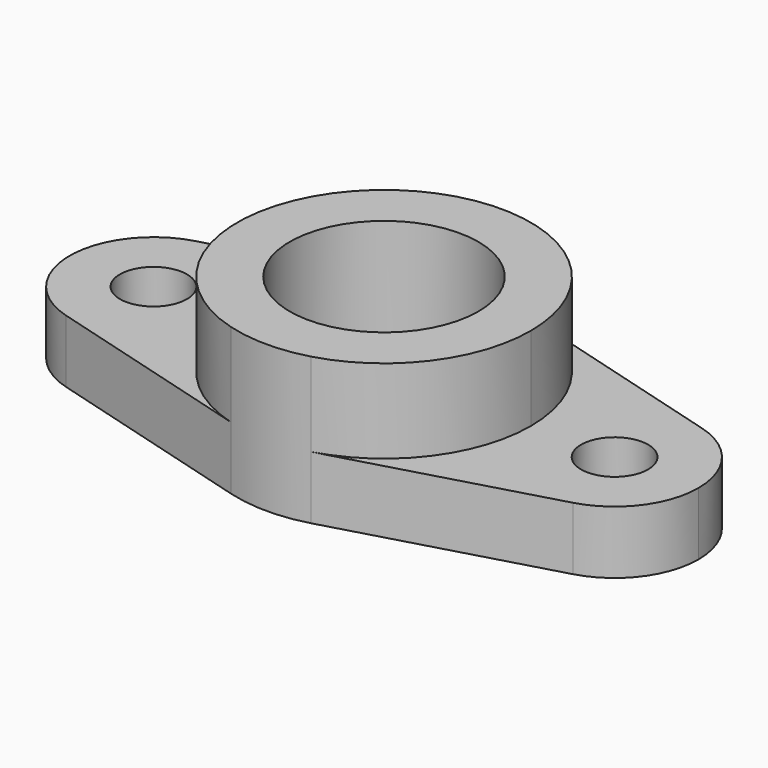
from build123d import *

# Parameters (mm, degrees)
F0_R     = 8
F0_R_2   = 22.5
F1_DEPTH = 15
F2_R     = 22.5
F3_DEPTH = 20


with BuildPart() as f1:
    # F0 (on Top) → F1 (new body)
    with BuildSketch(Plane.XY):
        with BuildLine():
            ThreePointArc((-60.454545, 19.241828), (-42.939546, 15.954481), (-35, 0))
            ThreePointArc((-35, 0), (-27.920341, 21.105794), (-9.545455, 33.673199))
            Line((-9.545455, 33.673199), (-60.454545, 19.241828))
        make_face()
        with BuildLine():
            ThreePointArc((-9.545455, -33.673199), (-27.920341, -21.105794), (-35, 0))
            ThreePointArc((-35, 0), (-42.939546, -15.954481), (-60.454545, -19.241828))
            Line((-60.454545, -19.241828), (-9.545455, -33.673199))
        make_face()
        with BuildLine():
            Line((60.454545, 19.241828), (9.545455, 33.673199))
            ThreePointArc((9.545455, 33.673199), (27.920341, 21.105794), (35, 0))
            ThreePointArc((35, 0), (42.939546, 15.954481), (60.454545, 19.241828))
        make_face()
        with BuildLine():
            ThreePointArc((35, 0), (27.920341, -21.105794), (9.545455, -33.673199))
            Line((9.545455, -33.673199), (60.454545, -19.241828))
            ThreePointArc((60.454545, -19.241828), (42.939546, -15.954481), (35, 0))
        make_face()
        with BuildLine():
            ThreePointArc((60.454545, 19.241828), (42.939546, 15.954481), (35, 0))
            ThreePointArc((35, 0), (42.939546, -15.954481), (60.454545, -19.241828))
            ThreePointArc((60.454545, -19.241828), (70.954481, -12.060454), (75, 0))
            ThreePointArc((75, 0), (70.954481, 12.060454), (60.454545, 19.241828))
        make_face()
        with Locations((55, 0)):
            Circle(F0_R, mode=Mode.SUBTRACT)
        with BuildLine():
            ThreePointArc((-9.545455, 33.673199), (-27.920341, 21.105794), (-35, 0))
            ThreePointArc((-35, 0), (-27.920341, -21.105794), (-9.545455, -33.673199))
            ThreePointArc((-9.545455, -33.673199), (0, -35), (9.545455, -33.673199))
            ThreePointArc((9.545455, -33.673199), (27.920341, -21.105794), (35, 0))
            ThreePointArc((35, 0), (27.920341, 21.105794), (9.545455, 33.673199))
            ThreePointArc((9.545455, 33.673199), (0, 35), (-9.545455, 33.673199))
        make_face()
        Circle(F0_R_2, mode=Mode.SUBTRACT)
        with BuildLine():
            ThreePointArc((-60.454545, -19.241828), (-42.939546, -15.954481), (-35, 0))
            ThreePointArc((-35, 0), (-42.939546, 15.954481), (-60.454545, 19.241828))
            ThreePointArc((-60.454545, 19.241828), (-75, 0), (-60.454545, -19.241828))
        make_face()
        with Locations((-55, 0)):
            Circle(F0_R, mode=Mode.SUBTRACT)
    extrude(amount=F1_DEPTH)

    # F2 (on face) → F3 (join)
    with BuildSketch(Plane.XY.offset(15)):
        with BuildLine():
            ThreePointArc((9.545455, -33.673199), (27.920341, -21.105794), (35, 0))
            ThreePointArc((35, 0), (27.920341, 21.105794), (9.545455, 33.673199))
            ThreePointArc((9.545455, 33.673199), (0, 35), (-9.545455, 33.673199))
            ThreePointArc((-9.545455, 33.673199), (-35, 0), (-9.545455, -33.673199))
            ThreePointArc((-9.545455, -33.673199), (0, -35), (9.545455, -33.673199))
        make_face()
        Circle(F2_R, mode=Mode.SUBTRACT)
    extrude(amount=F3_DEPTH)


solid = f1.part
